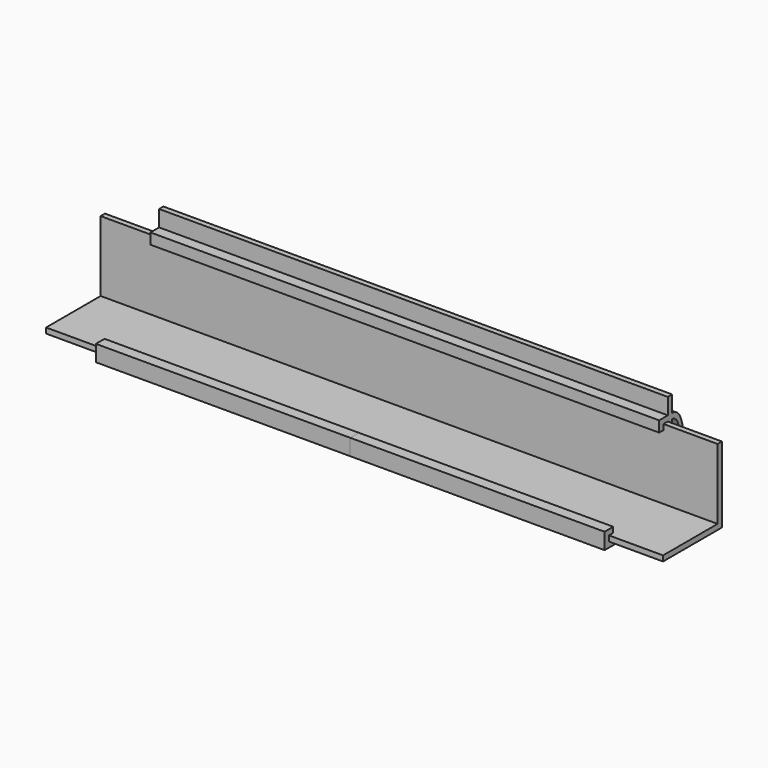
from build123d import *

# Parameters (mm, degrees)
F2_DEPTH = 57
F3_W     = 1
F3_H     = 3
F3_H_2   = 1
F4_DEPTH = 47


with BuildPart() as f2:
    # F1 (on Right) → F2 (new body, symmetric)
    with BuildSketch(Plane.YZ):
        Polygon((-6.7999985522, 1), (-6.7999985522, 0), (6.8000014478, 0), (6.8000014478, 14), (5.8000014478, 14), (5.8000014478, 1), align=None)
    extrude(amount=F2_DEPTH, both=True)


with BuildPart() as f4:
    # F3 (on Right) → F4 (new body, symmetric)
    with BuildSketch(Plane.YZ):
        Polygon((6.8000014478, 15), (5.8000014478, 15), (4.8000014478, 15), (4.8000014478, 13), (5.8000014478, 13), (5.8000014478, 14), (6.8000014478, 14), (7.8000014478, 14), (7.8000014478, 15), align=None)
        with Locations((7.3000014478, 16.5)):
            Rectangle(F3_W, F3_H)
        with BuildLine():
            add(Edge.make_bspline(
                [(7.8000014478, 15), (10.4125428975, 14.7853896119), (10.0364527538, 11.2032403116), (11.0279223045, 8.8449644431)],
                knots=[0, 0, 0, 0, 6.9594640385, 6.9594640385, 6.9594640385, 6.9594640385], degree=3))
            Line((7.8000014478, 15), (7.8000014478, 14))
            add(Edge.make_bspline(
                [(7.8000014478, 14), (9.7983983028, 13.7754146835), (9.3307289002, 10.3199013559), (10.2976912692, 8.3202515394)],
                knots=[0, 0, 0, 0, 6.1040707371, 6.1040707371, 6.1040707371, 6.1040707371], degree=3))
            ThreePointArc((10.2976912692, 8.3202515394), (10.6329356378, 8.6241789911), (11.0279223045, 8.8449644431))
        make_face()
        with BuildLine():
            add(Edge.make_bspline(
                [(11.0279223045, 8.8449644431), (11.1631061499, 8.5234207304), (11.3237135997, 8.224629424), (11.5207865382, 7.9602286364)],
                knots=[6.9594640385, 6.9594640385, 6.9594640385, 6.9594640385, 7.9083657068, 7.9083657068, 7.9083657068, 7.9083657068], degree=3))
            ThreePointArc((11.0279223045, 8.8449644431), (10.6329356378, 8.6241789911), (10.2976912692, 8.3202515394))
            add(Edge.make_bspline(
                [(10.2976912692, 8.3202515394), (10.4581578648, 7.9884113264), (10.6581329635, 7.6966643201), (10.9154431248, 7.4664296015)],
                knots=[6.1040707371, 6.1040707371, 6.1040707371, 6.1040707371, 7.1170361657, 7.1170361657, 7.1170361657, 7.1170361657], degree=3))
            ThreePointArc((10.9154431248, 7.4664296015), (11.16790066, 7.7748861813), (11.5207865382, 7.9602286364))
        make_face()
        with BuildLine():
            ThreePointArc((13.8000014478, 7), (12.9081173518, 8.6649561986), (11.0279223045, 8.8449644431))
            add(Edge.make_bspline(
                [(11.0279223045, 8.8449644431), (11.1631061499, 8.5234207304), (11.3237135997, 8.224629424), (11.5207865382, 7.9602286364)],
                knots=[6.9594640385, 6.9594640385, 6.9594640385, 6.9594640385, 7.9083657068, 7.9083657068, 7.9083657068, 7.9083657068], degree=3))
            ThreePointArc((11.5207865382, 7.9602286364), (12.4003284796, 7.7997546216), (12.8000014478, 7))
            ThreePointArc((12.8000014478, 7), (12.4003284796, 6.2002453784), (11.5207865382, 6.0397713636))
            add(Edge.make_bspline(
                [(11.0279223045, 5.1550355569), (11.1631061499, 5.4765792696), (11.3237135997, 5.775370576), (11.5207865382, 6.0397713636)],
                knots=[6.9594640385, 6.9594640385, 6.9594640385, 6.9594640385, 7.9083657068, 7.9083657068, 7.9083657068, 7.9083657068], degree=3))
            ThreePointArc((11.0279223045, 5.1550355569), (12.9081173518, 5.3350438014), (13.8000014478, 7))
        make_face()
        with BuildLine():
            add(Edge.make_bspline(
                [(10.2976912692, 5.6797484606), (10.4581578648, 6.0115886736), (10.6581329635, 6.3033356799), (10.9154431248, 6.5335703985)],
                knots=[6.1040707371, 6.1040707371, 6.1040707371, 6.1040707371, 7.1170361657, 7.1170361657, 7.1170361657, 7.1170361657], degree=3))
            ThreePointArc((10.2976912692, 5.6797484606), (10.6329356378, 5.3758210089), (11.0279223045, 5.1550355569))
            add(Edge.make_bspline(
                [(11.0279223045, 5.1550355569), (11.1631061499, 5.4765792696), (11.3237135997, 5.775370576), (11.5207865382, 6.0397713636)],
                knots=[6.9594640385, 6.9594640385, 6.9594640385, 6.9594640385, 7.9083657068, 7.9083657068, 7.9083657068, 7.9083657068], degree=3))
            ThreePointArc((11.5207865382, 6.0397713636), (11.16790066, 6.2251138187), (10.9154431248, 6.5335703985))
        make_face()
        with BuildLine():
            ThreePointArc((11.0279223045, 5.1550355569), (10.6329356378, 5.3758210089), (10.2976912692, 5.6797484606))
            add(Edge.make_bspline(
                [(7.8000014478, 0), (9.7983983028, 0.2245853165), (9.3307289002, 3.6800986441), (10.2976912692, 5.6797484606)],
                knots=[0, 0, 0, 0, 6.1040707371, 6.1040707371, 6.1040707371, 6.1040707371], degree=3))
            Line((7.8000014478, 0), (7.8000014478, -1))
            add(Edge.make_bspline(
                [(7.8000014478, -1), (10.4125428975, -0.7853896119), (10.0364527538, 2.7967596884), (11.0279223045, 5.1550355569)],
                knots=[0, 0, 0, 0, 6.9594640385, 6.9594640385, 6.9594640385, 6.9594640385], degree=3))
        make_face()
        Polygon((7.8000014478, -1), (7.8000014478, 0), (6.8000014478, 0), (-6.7999985522, 0), (-6.7999985522, 1), (-5.7999985522, 1), (-5.7999985522, 2), (-7.7999985522, 2), (-7.7999985522, 1), (-7.7999985522, -1), align=None)
        with Locations((7.3000014478, 13.5)):
            Rectangle(F3_W, F3_H_2)
        with Locations((7.3000014478, 0.5)):
            Rectangle(F3_W, F3_H_2)
    extrude(amount=F4_DEPTH, both=True)


solid = Compound([f2.part, f4.part])
